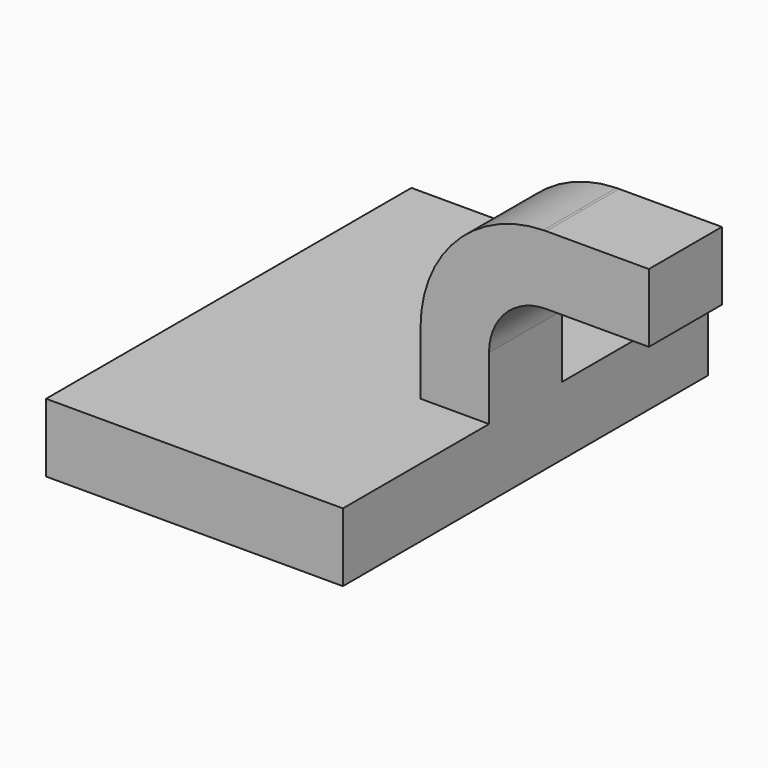
from build123d import *

# Parameters (mm, degrees)
F1_DEPTH = 63.5
F0_W     = 25.4
F0_H     = 19.05
F2_DEPTH = 12.7


with BuildPart() as f1:
    # F0 (on Front) → F1 (new body, symmetric)
    with BuildSketch(Plane.XZ):
        Polygon((-41.275, -9.525), (41.275, -9.525), (41.275, 9.525), (22.225, 9.525), (-41.275, 9.525), align=None)
    extrude(amount=F1_DEPTH, both=True)

    # F0 (on Front) → F2 (join, symmetric)
    with BuildSketch(Plane.XZ):
        with BuildLine():
            Line((22.225, 9.525), (41.275, 9.525))
            Line((41.275, 9.525), (41.275, 27.0002))
            ThreePointArc((41.275, 27.0002), (45.92468, 38.22552), (57.15, 42.8752))
            Line((57.15, 42.8752), (60.325, 42.8752))
            Line((60.325, 42.8752), (60.325, 61.9252))
            Line((60.325, 61.9252), (57.15, 61.9252))
            add(Edge.make_bspline(
                [(56.402573, 61.917201), (56.651714, 61.920678), (56.900859, 61.923346), (57.15, 61.9252)],
                knots=[110.899289, 110.899289, 110.899289, 110.899289, 111.504536, 111.504536, 111.504536, 111.504536], degree=3))
            ThreePointArc((56.402573, 61.917201), (32.191439, 51.43022), (22.225, 27.0002))
            Line((22.225, 27.0002), (22.225, 9.525))
        make_face()
        with Locations((73.025, 52.4002)):
            Rectangle(F0_W, F0_H)
    extrude(amount=F2_DEPTH, both=True)


solid = f1.part
